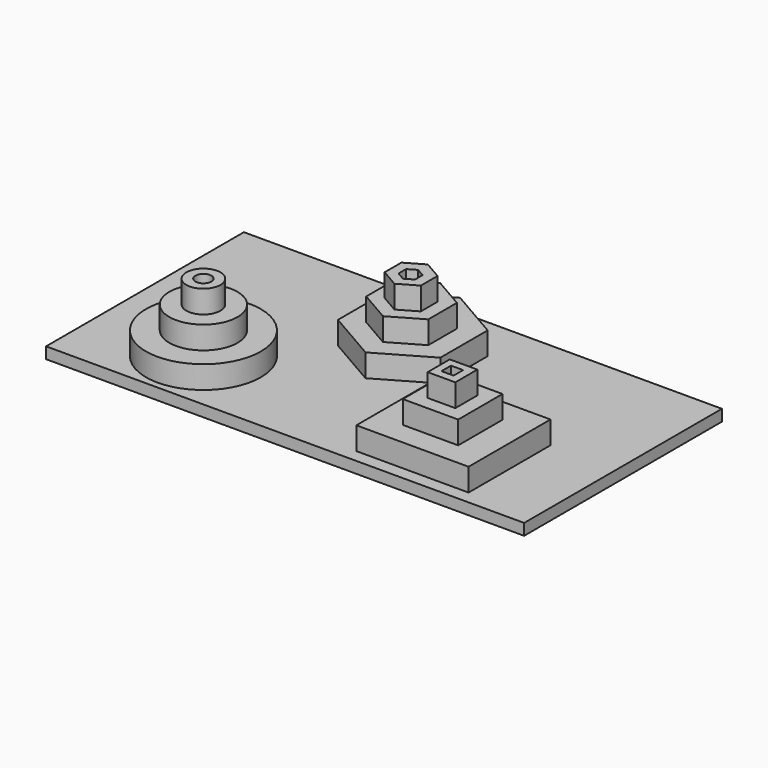
from build123d import *

# Parameters (mm, degrees)
SKETCH_R        = 50.540208
PAD_DEPTH       = 20
SKETCH001_R     = 30.027683
PAD001_DEPTH    = 20
SKETCH002_R     = 15.008606
PAD002_DEPTH    = 20
SKETCH003_R     = 7.050667
POCKET_DEPTH    = 60.001
SKETCH004_W     = 420.746094
SKETCH004_H     = 217.580834
PAD003_DEPTH    = 10
SKETCH005_W     = 98.75679
SKETCH005_H     = 90.115562
PAD004_DEPTH    = 20
SKETCH006_W     = 48.761093
SKETCH006_H     = 48.761156
PAD005_DEPTH    = 20
SKETCH007_W     = 24.319153
SKETCH007_H     = 24.30114
PAD006_DEPTH    = 20
SKETCH008_W     = 10.654495
SKETCH008_H     = 10.502288
POCKET001_DEPTH = 70.001
PAD007_DEPTH    = 20
PAD008_DEPTH    = 20
PAD009_DEPTH    = 20
POCKET002_DEPTH = 70.001


with BuildPart() as part:
    # Sketch → Pad (new body)
    with BuildSketch(Plane.XY):
        Circle(SKETCH_R)
    extrude(amount=PAD_DEPTH)

    # Sketch001 (on Face3 of Pad) → Pad001 (join)
    with BuildSketch(Plane.XY.offset(20)):
        Circle(SKETCH001_R)
    extrude(amount=PAD001_DEPTH)

    # Sketch002 (on Face5 of Pad001) → Pad002 (join)
    with BuildSketch(Plane.XY.offset(40)):
        Circle(SKETCH002_R)
    extrude(amount=PAD002_DEPTH)

    # Sketch003 (on Face7 of Pad002) → Pocket (cut, through all)
    with BuildSketch(Plane.XY.offset(60)):
        Circle(SKETCH003_R)
    extrude(amount=-POCKET_DEPTH, mode=Mode.SUBTRACT)

    # Sketch004 → Pad003 (join)
    with BuildSketch(Plane.XY):
        with Locations((116.873352, 52.568348)):
            Rectangle(SKETCH004_W, SKETCH004_H)
    extrude(amount=-PAD003_DEPTH)

    # Sketch005 (on Face4 of Pad003) → Pad004 (join)
    with BuildSketch(Plane.XY):
        with Locations((219.817588, 0.267387)):
            Rectangle(SKETCH005_W, SKETCH005_H)
    extrude(amount=PAD004_DEPTH)

    # Sketch006 (on Face13 of Pad004) → Pad005 (join)
    with BuildSketch(Plane.XY.offset(20)):
        with Locations((219.351036, -0.022332)):
            Rectangle(SKETCH006_W, SKETCH006_H)
    extrude(amount=PAD005_DEPTH)

    # Sketch007 (on Face20 of Pad005) → Pad006 (join)
    with BuildSketch(Plane.XY.offset(40)):
        with Locations((219.415116, -0.255952)):
            Rectangle(SKETCH007_W, SKETCH007_H)
    extrude(amount=PAD006_DEPTH)

    # Sketch008 (on Face27 of Pad006) → Pocket001 (cut, through all)
    with BuildSketch(Plane.XY.offset(60)):
        with Locations((219.071236, -0.040661)):
            Rectangle(SKETCH008_W, SKETCH008_H)
    extrude(amount=-POCKET001_DEPTH, mode=Mode.SUBTRACT)

    # Sketch009 (on Face4 of Pocket001) → Pad007 (join)
    with BuildSketch(Plane.XY):
        Polygon((152.636142, 69.881975), (152.636142, 121.928939), (107.562149, 147.952421), (62.488156, 121.928939), (62.488156, 69.881975), (107.562149, 43.858493), align=None)
    extrude(amount=PAD007_DEPTH)

    # Sketch010 (on Face24 of Pad007) → Pad008 (join)
    with BuildSketch(Plane.XY.offset(20)):
        Polygon((107.233368, 63.429135), (134.533937, 79.191126), (134.533937, 110.715108), (107.233368, 126.477099), (79.932799, 110.715108), (79.932799, 79.191126), align=None)
    extrude(amount=PAD008_DEPTH)

    # Sketch011 (on Face43 of Pad008) → Pad009 (join)
    with BuildSketch(Plane.XY.offset(40)):
        Polygon((107.227683, 76.060802), (123.144716, 85.250505), (123.144716, 103.629912), (107.227683, 112.819615), (91.31065, 103.629912), (91.31065, 85.250505), align=None)
    extrude(amount=PAD009_DEPTH)

    # Sketch012 (on Face52 of Pad009) → Pocket002 (cut, through all)
    with BuildSketch(Plane.XY.offset(60)):
        Polygon((107.152039, 85.588319), (114.400809, 89.773399), (114.400809, 98.143557), (107.152039, 102.328637), (99.903269, 98.143557), (99.903269, 89.773399), align=None)
    extrude(amount=-POCKET002_DEPTH, mode=Mode.SUBTRACT)


solid = part.part
